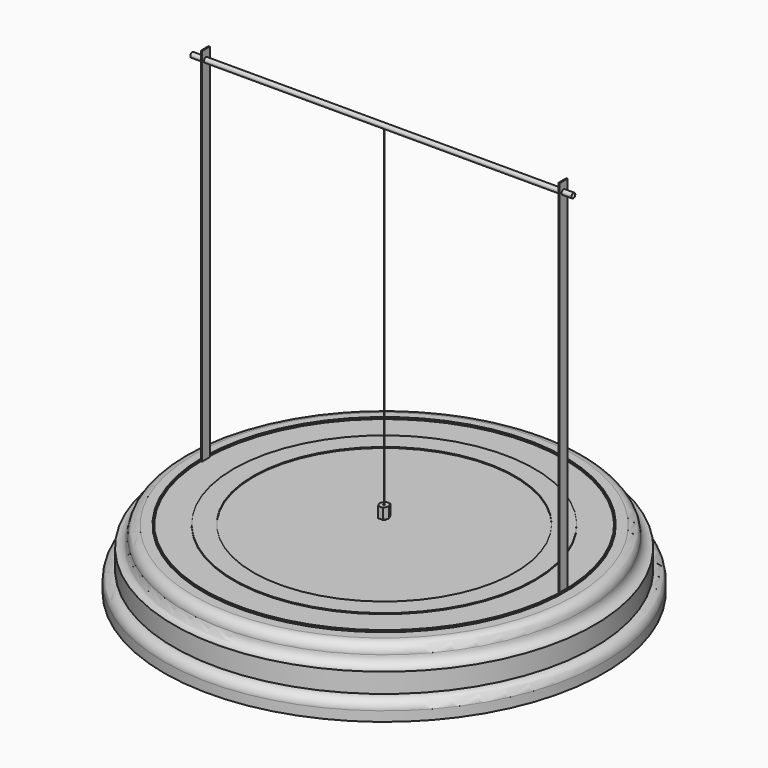
from build123d import *

# Parameters (mm, degrees)
F2_W           = 228.6
F2_H           = 25.4
F3_DEPTH       = 9
F4_W           = 0.79375
F4_H           = 6.35
F5_DEPTH       = 6.35
F6_W           = 12.7
F6_H           = 7.62
F8_W           = 12.7
F8_H           = 3
F10_W          = 0.79375
F10_H          = 6.35
F13_DEPTH      = 3
F14_W          = 0.79375
F14_H          = 6.35
F15_DEPTH      = 241.3
F16_R          = 1.5875
F17_DEPTH      = 259.5554955015
F18_R          = 1.5875
F18_R_2        = 1.4097
F19_DEPTH      = 241.3
F19_DEPTH_BACK = 6.35
F20_R          = 0.396875
F21_DEPTH      = 228.6
F24_R          = 1.2319
F24_R_2        = 0.5
F25_DEPTH      = 7


with BuildPart() as f1:
    # F0 (on Front) → F1 (revolve)
    with BuildSketch(Plane.XZ):
        with BuildLine():
            Line((0, 35.1), (0, 38.1))
            Line((0, 38.1), (-85, 38.1))
            Line((-85, 38.1), (-85, 28.1))
            Line((-85, 28.1), (-97.7, 28.1))
            Line((-97.7, 28.1), (-97.7, 38.1))
            Line((-97.7, 38.1), (-116.75, 38.1))
            Line((-116.75, 38.1), (-116.75, 31.75))
            Line((-116.75, 31.75), (-117.54375, 31.75))
            Line((-117.54375, 31.75), (-117.54375, 38.1))
            Line((-117.54375, 38.1), (-123.89375, 38.1))
            ThreePointArc((-123.89375, 38.1), (-128.3838780605, 36.2401280605), (-130.24375, 31.75))
            ThreePointArc((-130.24375, 31.75), (-132.1036219395, 27.2598719395), (-136.59375, 25.4))
            Line((-136.59375, 25.4), (-136.59375, 12.7))
            ThreePointArc((-136.59375, 12.7), (-141.0838780605, 10.8401280605), (-142.94375, 6.35))
            Line((-142.94375, 6.35), (-142.94375, 0))
            Line((-142.94375, 0), (-104.84375, 0))
            Line((-104.84375, 0), (-104.84375, 6))
            Line((-104.84375, 6), (-115.95625, 6))
            Line((-115.95625, 6), (-115.95625, 9))
            Line((-115.95625, 9), (-104.84375, 9))
            Line((-104.84375, 9), (-104.84375, 25.4))
            Line((-104.84375, 25.4), (-38.1, 25.4))
            Line((-38.1, 25.4), (-38.1, 35.1))
            Line((-38.1, 35.1), (0, 35.1))
        make_face()
    revolve(axis=Axis((0, 0, 36.6), (0, 0, 1)))

    # F2 (on face) → F3 (cut, through all)
    with BuildSketch(Plane(origin=(0, 0, 0), x_dir=(1, 0, 0), z_dir=(0, 0, -1))):
        Rectangle(F2_W, F2_H)
    extrude(amount=-F3_DEPTH, mode=Mode.SUBTRACT)

    # F4 (on face) → F5 (cut)
    with BuildSketch(Plane.XY.offset(38.1)):
        with Locations((-116.220875, 0)):
            Rectangle(F4_W, F4_H)
        with Locations((116.220875, 0)):
            Rectangle(F4_W, F4_H)
    extrude(amount=-F5_DEPTH, mode=Mode.SUBTRACT)


with BuildPart() as f7:
    # F6 (on Front) → F7 (revolve)
    with BuildSketch(Plane.XZ):
        with Locations((-91.35, 31.9024)):
            Rectangle(F6_W, F6_H)
    revolve(axis=Axis((0, 0, 31.9024), (0, 0, -1)))


with BuildPart() as f9:
    # F8 (on Front) → F9 (revolve)
    with BuildSketch(Plane.XZ):
        with Locations((-91.35, 37.2124)):
            Rectangle(F8_W, F8_H)
    revolve(axis=Axis((0, 0, 37.2124), (0, 0, 1)))


with BuildPart() as f11:
    # F10 (on Front) → F11 (revolve)
    with BuildSketch(Plane.XZ):
        with Locations((-117.135275, 35.71875)):
            Rectangle(F10_W, F10_H)
    revolve(axis=Axis((0, 0, 16.271875), (0, 0, 1)))


with BuildPart() as f13:
    # F12 (on face) → F13 (new body)
    with BuildSketch(Plane(origin=(0, 0, 9), x_dir=(1, 0, 0), z_dir=(0, 0, -1))):
        with BuildLine():
            Line((114.3, 12.7), (104.0717152451, 12.7))
            ThreePointArc((104.0717152451, 12.7), (104.6505633269, 6.3617222052), (104.84375, 0))
            ThreePointArc((104.84375, 0), (104.6505633269, -6.3617222052), (104.0717152451, -12.7))
            Line((104.0717152451, -12.7), (114.3, -12.7))
            Line((114.3, -12.7), (114.3, 12.7))
        make_face()
        with BuildLine():
            ThreePointArc((-104.0717152451, -12.7), (-104.84375, 0), (-104.0717152451, 12.7))
            Line((-104.0717152451, 12.7), (-114.3, 12.7))
            Line((-114.3, 12.7), (-114.3, -12.7))
            Line((-114.3, -12.7), (-104.0717152451, -12.7))
        make_face()
        with BuildLine():
            ThreePointArc((104.84375, 0), (104.6505633269, 6.3617222052), (104.0717152451, 12.7))
            ThreePointArc((104.0717152451, 12.7), (0, 104.84375), (-104.0717152451, 12.7))
            ThreePointArc((-104.0717152451, 12.7), (-104.84375, 0), (-104.0717152451, -12.7))
            ThreePointArc((-104.0717152451, -12.7), (0, -104.84375), (104.0717152451, -12.7))
            ThreePointArc((104.0717152451, -12.7), (104.6505633269, -6.3617222052), (104.84375, 0))
        make_face()
    extrude(amount=F13_DEPTH)


with BuildPart() as f15:
    # F14 (on face) → F15 (new body)
    with BuildSketch(Plane.XY.offset(31.75)):
        with Locations((116.2138705015, 0.0062028795)):
            Rectangle(F14_W, F14_H)
    extrude(amount=F15_DEPTH)


with BuildPart() as f15b:
    # F14 (on face) → F15, piece 2 (new body)
    with BuildSketch(Plane.XY.offset(31.75)):
        with Locations((-116.220875, 0)):
            Rectangle(F14_W, F14_H)
    extrude(amount=F15_DEPTH)


with BuildPart() as f17_tool:
    # F16 (on face) → F17 (new body, through all)
    with BuildSketch(Plane.YZ.offset(116.6107455015)):
        with Locations((0.0062028795, 266.7)):
            Circle(F16_R)
    extrude(amount=-F17_DEPTH)


with BuildPart() as f15_1:
    add(f15.part)

    # F17: cut by f17_tool
    add(f17_tool.part, mode=Mode.SUBTRACT)


with BuildPart() as f15b_1:
    add(f15b.part)

    # F17: cut by f17_tool
    add(f17_tool.part, mode=Mode.SUBTRACT)


with BuildPart() as f19:
    # F18 (on face) → F19 (new body, two sides)
    with BuildSketch(Plane.YZ.offset(116.6107455015)) as f19_sk:
        with Locations((0.0062028795, 266.7)):
            Circle(F18_R)
        with Locations((0.0062028795, 266.7)):
            Circle(F18_R_2, mode=Mode.SUBTRACT)
    extrude(amount=-F19_DEPTH)
    extrude(f19_sk.sketch, amount=F19_DEPTH_BACK)

    # F20 (on face) → F21 (cut)
    with BuildSketch(Plane.XY.offset(38.1)):
        Circle(F20_R)
    extrude(amount=F21_DEPTH, mode=Mode.SUBTRACT)


with BuildPart() as f23:
    # F22 (on Front) → F23 (revolve)
    with BuildSketch(Plane.XZ):
        Polygon((0, 41.6306), (0, 266.7), (-1.2319, 266.7), (-1.2319, 265.4681), (-0.1016, 265.4681), (-0.1016, 265.1125), (-0.1016, 42.8625), (-1.2319, 42.8625), (-1.2319, 41.6306), align=None)
    revolve(axis=Axis((0, 0, 154.1653), (0, 0, 1)))


with BuildPart() as f25:
    # F24 (on face) → F25 (new body)
    with BuildSketch(Plane.XY.offset(42.8625)):
        Polygon((1.6457513111, 3), (-1.6457513111, 3), (-3, 0), (-1.6457513111, -3), (1.6457513111, -3), (3, 0), align=None)
        Circle(F24_R, mode=Mode.SUBTRACT)
        Circle(F24_R)
        Circle(F24_R_2, mode=Mode.SUBTRACT)
    extrude(amount=F25_DEPTH)


solid = Compound([f1.part, f7.part, f9.part, f11.part, f13.part, f15_1.part, f15b_1.part, f19.part, f23.part, f25.part])
